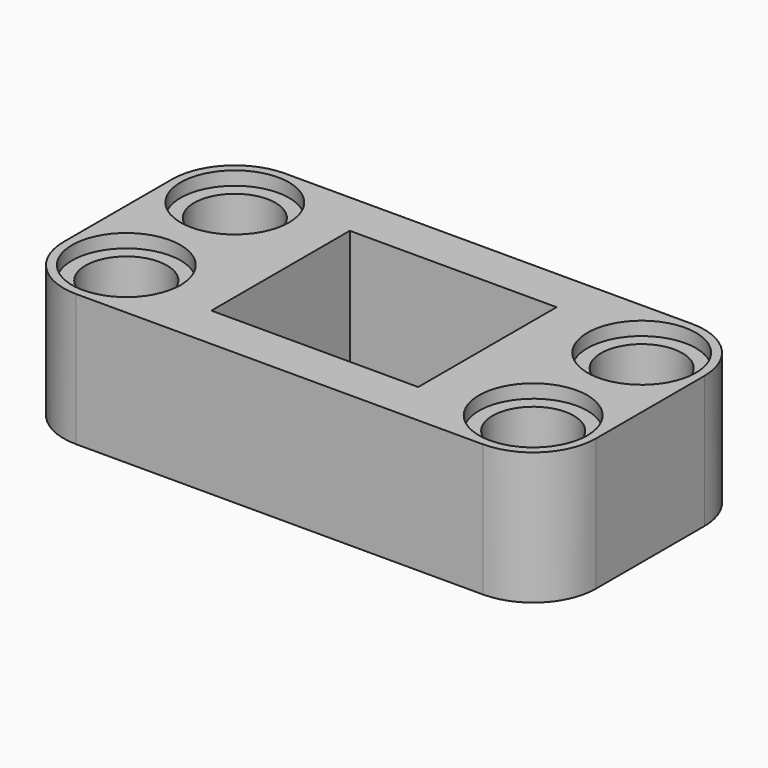
from build123d import *

# Parameters (mm, degrees)
F0_R     = 3.2
F0_W     = 12.2
F0_H     = 10.2
F1_DEPTH = 7.8
F2_START = 0.8
F0_R_2   = 2.4
F2_DEPTH = 6.2
F0_R_3   = 1
F0_R_4   = 2
F3_DEPTH = 0.8


with BuildPart() as f1:
    # F0 (on Top) → F1 (new body)
    with BuildSketch(Plane.XY):
        with BuildLine():
            Line((12, 7.7), (-12, 7.7))
            ThreePointArc((-12, 7.7), (-14.6162950904, 6.6162950904), (-15.7, 4))
            Line((-15.7, 4), (-15.7, -4))
            ThreePointArc((-15.7, -4), (-14.6162950904, -6.6162950904), (-12, -7.7))
            Line((-12, -7.7), (12, -7.7))
            ThreePointArc((12, -7.7), (14.6162950904, -6.6162950904), (15.7, -4))
            Line((15.7, -4), (15.7, 4))
            ThreePointArc((15.7, 4), (14.6162950904, 6.6162950904), (12, 7.7))
        make_face()
        with Locations((-12, -4)):
            Circle(F0_R, mode=Mode.SUBTRACT)
        with Locations((12, -4)):
            Circle(F0_R, mode=Mode.SUBTRACT)
        with Locations((-12, 4)):
            Circle(F0_R, mode=Mode.SUBTRACT)
        Rectangle(F0_W, F0_H, mode=Mode.SUBTRACT)
        with Locations((12, 4)):
            Circle(F0_R, mode=Mode.SUBTRACT)
    extrude(amount=F1_DEPTH)

    # F0 (on Top) → F2 (join)
    with BuildSketch(Plane.XY.offset(F2_START)):
        with Locations((-12, -4)):
            Circle(F0_R)
        with Locations((-12, -4)):
            Circle(F0_R_2, mode=Mode.SUBTRACT)
        with Locations((12, -4)):
            Circle(F0_R)
        with Locations((12, -4)):
            Circle(F0_R_2, mode=Mode.SUBTRACT)
        with Locations((-12, 4)):
            Circle(F0_R)
        with Locations((-12, 4)):
            Circle(F0_R_2, mode=Mode.SUBTRACT)
        with Locations((12, 4)):
            Circle(F0_R)
        with Locations((12, 4)):
            Circle(F0_R_2, mode=Mode.SUBTRACT)
    extrude(amount=F2_DEPTH)

    # F0 (on Top) → F3 (join)
    with BuildSketch(Plane.XY):
        Rectangle(F0_W, F0_H)
        with Locations((-4.5, 0)):
            Circle(F0_R_3, mode=Mode.SUBTRACT)
        Circle(F0_R_4, mode=Mode.SUBTRACT)
        with Locations((4.5, 0)):
            Circle(F0_R_3, mode=Mode.SUBTRACT)
    extrude(amount=F3_DEPTH)


solid = f1.part
